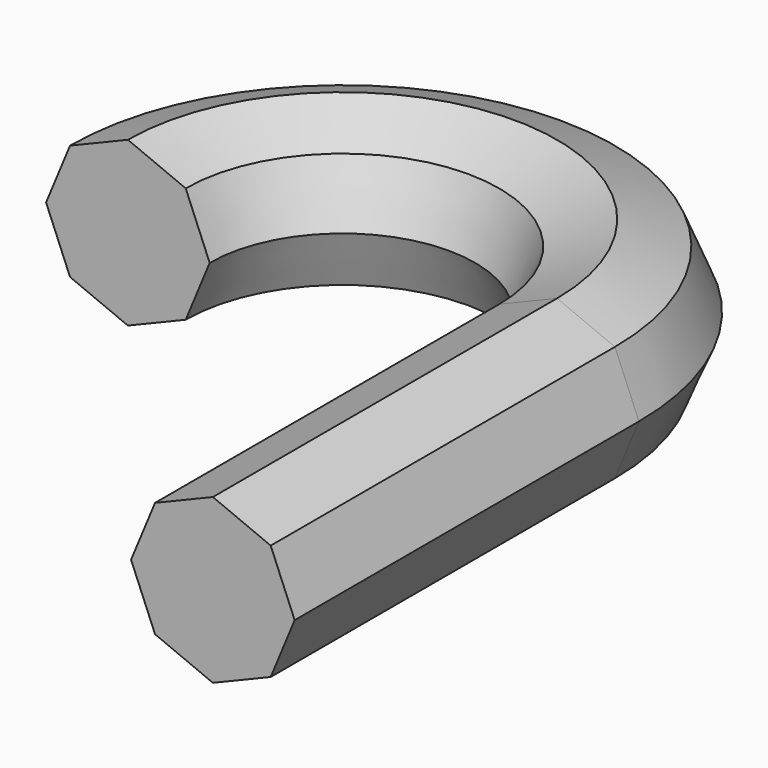
from build123d import *


with BuildPart() as f2:
    # F2: sweep along a path in F0
    with BuildLine(Plane.XY) as f2_path:
        Line((0, 0), (0, 50.8))
        ThreePointArc((0, 50.8), (-25.337186, 76.137186), (-50.674371, 50.8))
    # F1 (on Front) → F2 (sweep)
    with BuildSketch(Plane.XZ):
        Polygon((6.828091, 6.828091), (0, 9.656379), (-6.828091, 6.828091), (-9.656379, 0), (-6.828091, -6.828091), (0, -9.656379), (6.828091, -6.828091), (9.656379, 0), align=None)
    sweep(path=f2_path.line)


solid = f2.part
